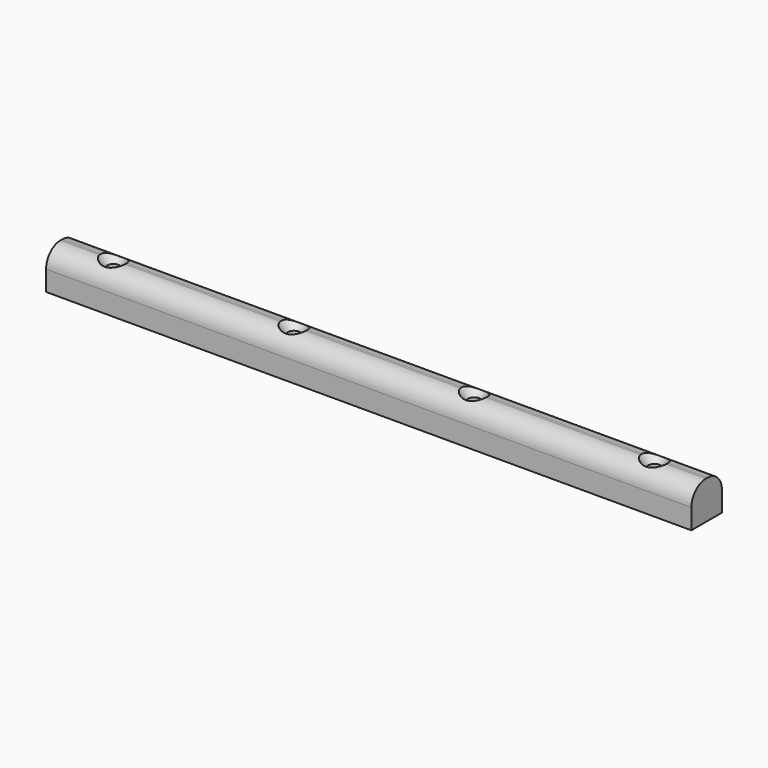
from build123d import *

# Parameters (mm, degrees)
F0_W           = 107.3
F0_H           = 6.35
F1_DEPTH       = 6.35
F2_R           = 3
F4_D           = 2.0574
F4_CSINK_D     = 4.2672
F4_CSINK_ANGLE = 82


with BuildPart() as f1:
    # F0 (on Top) → F1 (new body)
    with BuildSketch(Plane.XY):
        Rectangle(F0_W, F0_H)
    extrude(amount=F1_DEPTH)

    # F2
    f2_edges = [f1.edges().sort_by_distance(p)[0] for p in [
        (0, 3.175, 6.35),
        (0, -3.175, 6.35),
    ]]
    fillet(f2_edges, radius=F2_R)

    # F4 (through all)
    with Locations(Plane.XY.offset(6.35)):
        with Locations((-14.9764604867, 0), (15.0013882667, 0), (44.9633300304, 0), (-45.0155586004, 0)):
            CounterSinkHole(F4_D / 2, F4_CSINK_D / 2, counter_sink_angle=F4_CSINK_ANGLE)


solid = f1.part
